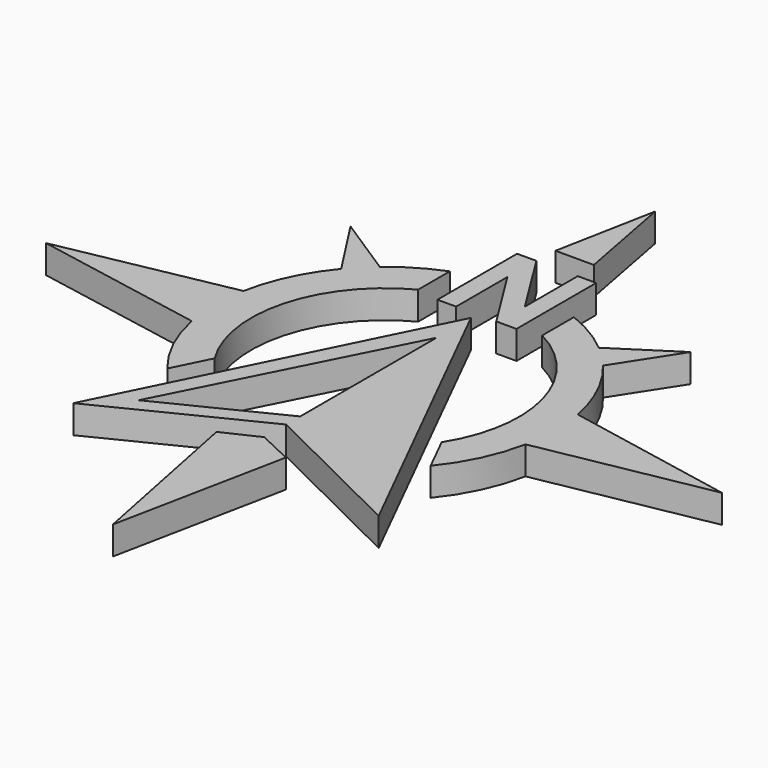
from build123d import *

# Parameters (mm, degrees)
F1_DEPTH = 3.175


with BuildPart() as f1:
    # F0 (on Top) → F1 (new body)
    with BuildSketch(Plane.XY):
        Polygon((33.548303, 62.360659), (33.548303, 51.162899), (35.650037, 51.162899), (35.650037, 58.363922), (40.163595, 51.162899), (42.437606, 51.162899), (42.437606, 62.360659), (40.370323, 62.360659), (40.370323, 54.918457), (35.718944, 62.360659), align=None)
        Polygon((37.993872, 76.2), (35.827734, 64.905964), (40.141707, 64.905964), align=None)
        with BuildLine():
            Line((56.766506, 34.520764), (75.987744, 38.1))
            Line((75.987744, 38.1), (56.795935, 41.822735))
            ThreePointArc((56.795935, 41.822735), (55.307425, 46.402774), (52.722181, 50.465892))
            Line((52.722181, 50.465892), (57.132075, 57.285875))
            Line((57.132075, 57.285875), (50.318263, 52.885472))
            ThreePointArc((50.318263, 52.885472), (47.777881, 54.690731), (44.978075, 56.059519))
            Line((44.978075, 56.059519), (44.978075, 51.60253))
            ThreePointArc((44.978075, 51.60253), (52.546273, 42.187735), (50.766564, 30.23999))
            Line((50.766564, 30.23999), (52.80741, 26.132355))
            ThreePointArc((52.80741, 26.132355), (55.303119, 30.082946), (56.766506, 34.520764))
        make_face()
        Polygon((38.004477, 50.308488), (20.876307, 15.834421), (38.004477, 24.340365), (55.208564, 15.834421), align=None)
        Polygon((38.004477, 45.467813), (38.004477, 26.30846), (25.006175, 19.853431), align=None, mode=Mode.SUBTRACT)
        Polygon((34.103311, 19.424467), (37.993872, 0), (41.903805, 19.420577), (38.004477, 21.264719), align=None)
        with BuildLine():
            Line((19.21342, 41.824848), (0, 38.1))
            Line((0, 38.1), (19.242849, 34.518739))
            ThreePointArc((19.242849, 34.518739), (20.706275, 30.082012), (23.201543, 26.132355))
            Line((23.201543, 26.132355), (25.242389, 30.23999))
            ThreePointArc((25.242389, 30.23999), (23.46268, 42.187735), (31.030878, 51.60253))
            Line((31.030878, 51.60253), (31.030878, 56.059519))
            ThreePointArc((31.030878, 56.059519), (28.231072, 54.690731), (25.69069, 52.885472))
            Line((25.69069, 52.885472), (18.876879, 57.285875))
            Line((18.876879, 57.285875), (23.286772, 50.465892))
            ThreePointArc((23.286772, 50.465892), (20.701986, 46.403747), (19.21342, 41.824848))
        make_face()
    extrude(amount=F1_DEPTH)


solid = f1.part
